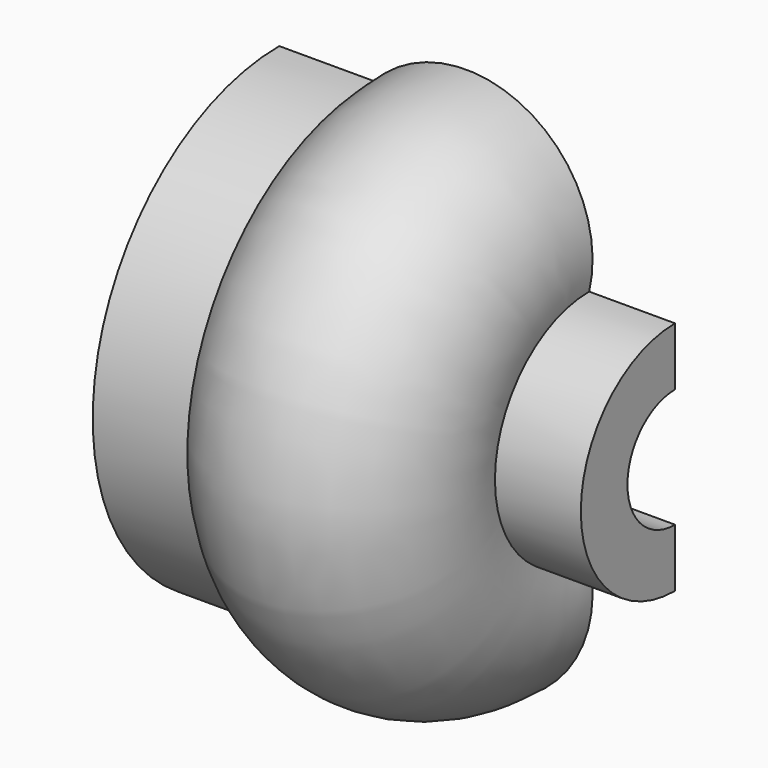
from build123d import *

# Parameters (mm, degrees)
F1_ANGLE = 180
F2_W     = 11.076235
F2_H     = 31.188723
F3_DEPTH = 20


with BuildPart() as f1:
    # F0 (on Front) → F1 (revolve)
    with BuildSketch(Plane.XZ):
        with BuildLine():
            Line((-24.65253, 40.152624), (-9.592434, 40.152624))
            ThreePointArc((-9.592434, 40.152624), (-9.673772, 31.895267), (-7.553213, 23.914428))
            Line((-7.553213, 23.914428), (-26.719207, 23.914428))
            Line((-26.719207, 23.914428), (-26.719207, 0))
            Line((-26.719207, 0), (0, 0))
            Line((0, 0), (0, 13.119846))
            ThreePointArc((0, 13.119846), (4.151934, 9.906387), (8.790316, 7.446654))
            Line((8.790316, 7.446654), (12.329266, 19.375385))
            ThreePointArc((12.329266, 19.375385), (24.475215, 53.77601), (22.260371, 17.361432))
            Line((22.260371, 17.361432), (22.260371, 5.030416))
            ThreePointArc((22.260371, 5.030416), (33.538586, 7.754689), (43.002622, 14.466753))
            Line((43.002622, 14.466753), (71.595661, 14.466753))
            Line((71.595661, 14.466753), (71.595661, 28.638268))
            Line((71.595661, 28.638268), (50.713915, 28.638268))
            ThreePointArc((50.713915, 28.638268), (35.322294, 62.811102), (-1.652945, 56.686051))
            Line((-1.652945, 56.686051), (-24.65253, 56.686051))
            Line((-24.65253, 56.686051), (-24.65253, 40.152624))
        make_face()
    revolve(axis=Axis((-13.359603, 0, 0), (1, 0, 0)), revolution_arc=F1_ANGLE)

    # F2 (on face) → F3 (join)
    with BuildSketch(Plane(origin=(0, 0, 0), x_dir=(-1, 0, 0), z_dir=(0, 1, 0))):
        with Locations((14.0045, 1.382739)):
            Rectangle(F2_W, F2_H)
    extrude(amount=F3_DEPTH)


solid = f1.part
